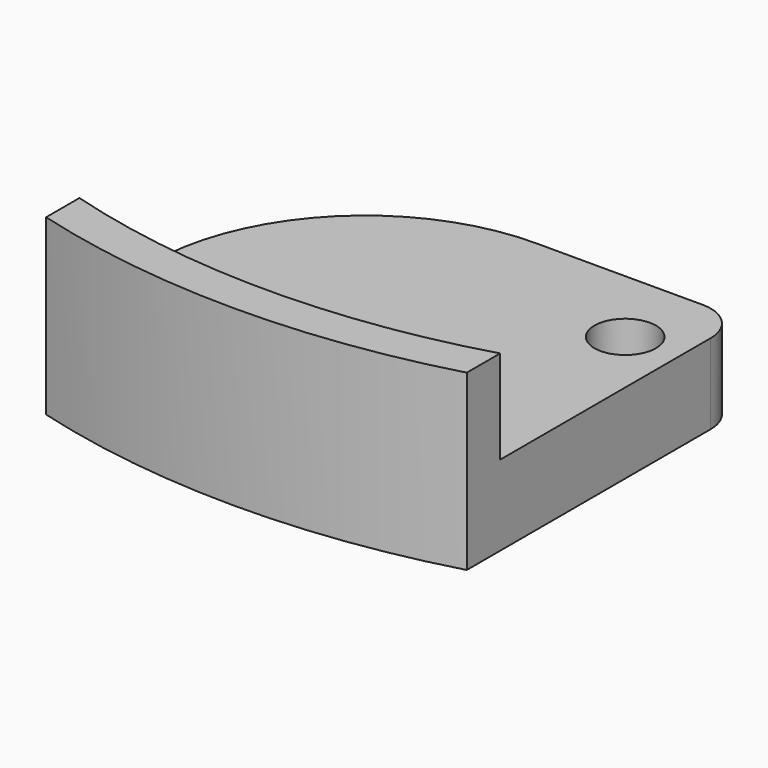
from build123d import *

# Parameters (mm, degrees)
F0_R     = 0.8
F1_DEPTH = 3
F2_R     = 2.3
F3_DEPTH = 3
F5_DEPTH = 7
F6_R     = 16
F7_R     = 3


with BuildPart() as f1:
    # F0 (on Top) → F1 (new body)
    with BuildSketch(Plane.XY):
        with BuildLine():
            Line((15.7390861437, -56.8619483254), (15.7390861437, -31.0455008498))
            Line((15.7390861437, -31.0455008498), (-15.7390861437, -31.0455008498))
            Line((-15.7390861437, -31.0455008498), (-15.7390861437, -56.8619483254))
            ThreePointArc((-15.7390861437, -56.8619483254), (0, -59), (15.7390861437, -56.8619483254))
        make_face()
        with Locations((11.7390861437, -37.0455008498)):
            Circle(F0_R, mode=Mode.SUBTRACT)
    extrude(amount=F1_DEPTH)

    # F2 (on face) → F3 (join)
    with BuildSketch(Plane.XY.offset(3)):
        with BuildLine():
            Line((-15.7390861437, -31.0455008498), (-15.7390861437, -56.8619483254))
            ThreePointArc((-15.7390861437, -56.8619483254), (0, -59), (15.7390861437, -56.8619483254))
            Line((15.7390861437, -56.8619483254), (15.7390861437, -31.0455008498))
            Line((15.7390861437, -31.0455008498), (-15.7390861437, -31.0455008498))
        make_face()
        with Locations((11.7390861437, -37.0455008498)):
            Circle(F2_R, mode=Mode.SUBTRACT)
    extrude(amount=F3_DEPTH)

    # F4 (on face) → F5 (join)
    with BuildSketch(Plane.XY.offset(6)):
        with BuildLine():
            ThreePointArc((15.7390861437, -53.7427312979), (0, -56), (-15.7390861437, -53.7427312979))
            Line((-15.7390861437, -53.7427312979), (-15.7390861437, -56.8619483254))
            ThreePointArc((-15.7390861437, -56.8619483254), (0, -59), (15.7390861437, -56.8619483254))
            Line((15.7390861437, -56.8619483254), (15.7390861437, -53.7427312979))
        make_face()
    extrude(amount=F5_DEPTH)

    # F6
    f6_edges = [f1.edges().sort_by_distance(p)[0] for p in [
        (-15.739086, -31.045501, 3),
    ]]
    fillet(f6_edges, radius=F6_R)

    # F7
    f7_edges = [f1.edges().sort_by_distance(p)[0] for p in [
        (15.739086, -31.045501, 3),
    ]]
    fillet(f7_edges, radius=F7_R)


solid = f1.part
